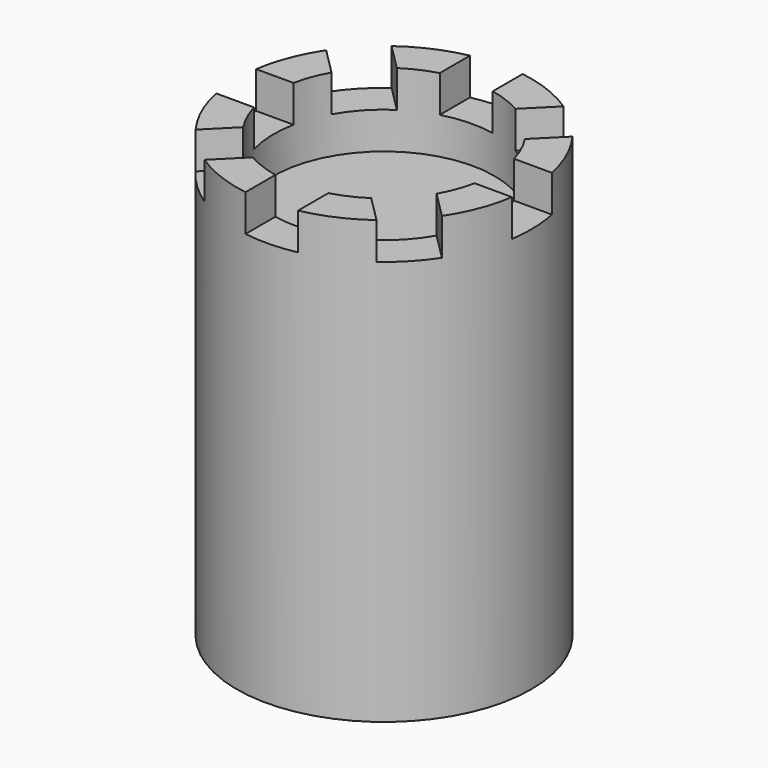
from build123d import *

# Parameters (mm, degrees)
BOX_W             = 7
BOX_H             = 7
BOX_DEPTH         = 7
ARRAY_COUNT       = 8
CYLINDER002_R     = 15
CYLINDER002_DEPTH = 10
CYLINDER001_R     = 20
CYLINDER001_DEPTH = 20
CYLINDER_R        = 20
CYLINDER_DEPTH    = 50


with BuildPart() as array:
    # Box → Box (new body)
    with BuildSketch(Plane(origin=(14, -3, 57), x_dir=(1, 0, 0), z_dir=(0, 0, 1))):
        with Locations((3.5, 3.5)):
            Rectangle(BOX_W, BOX_H)
    extrude(amount=BOX_DEPTH)

    # Array: Array ×8 about axis
    array_axis = Axis((0, 0, 0), (0, 0, 1))


with BuildPart() as array_1:
    add(array.part)
    for i in range(1, ARRAY_COUNT):
        add(array.part.rotate(array_axis, i * 360 / ARRAY_COUNT))


with BuildPart() as array_2:
    # Array placement: moved
    add(array_1.part.moved(Location((0, 0, -2))))


with BuildPart() as cilindre002:
    # Cylinder002 → Cylinder002 (new body)
    with BuildSketch(Plane.XY.offset(50)):
        Circle(CYLINDER002_R)
    extrude(amount=CYLINDER002_DEPTH)


with BuildPart() as cut:
    # Cylinder001 → Cylinder001 (new body)
    with BuildSketch(Plane.XY.offset(40)):
        Circle(CYLINDER001_R)
    extrude(amount=CYLINDER001_DEPTH)

    # Cut: cut Cilindre002
    add(cilindre002.part, mode=Mode.SUBTRACT)


with BuildPart() as cut001:
    # Cylinder → Cylinder (new body)
    with BuildSketch(Plane.XY):
        Circle(CYLINDER_R)
    extrude(amount=CYLINDER_DEPTH)

    # Fusion: union Cut
    add(cut.part)

    # Cut001: cut Array
    add(array_2.part, mode=Mode.SUBTRACT)


solid = cut001.part
